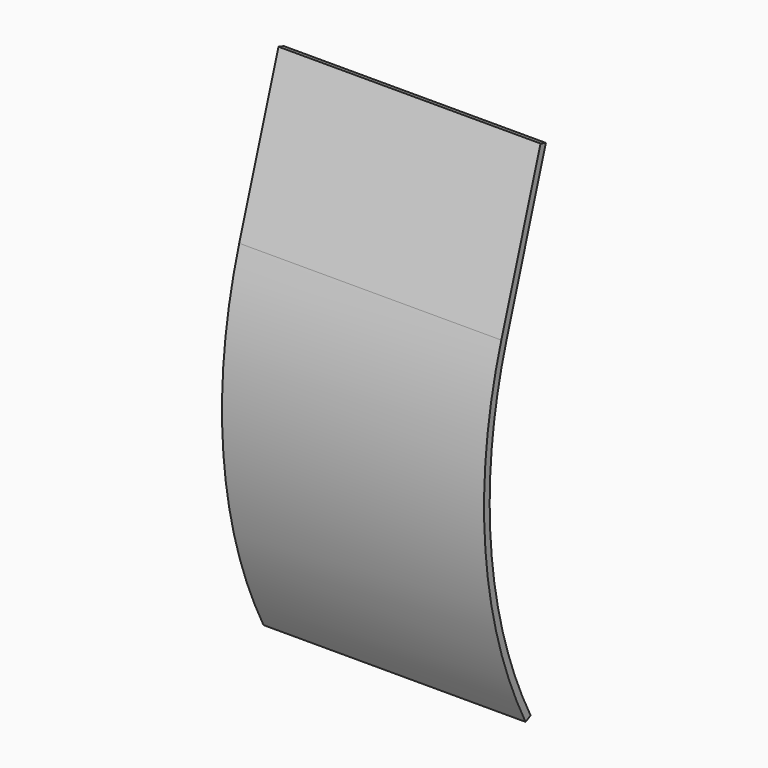
from build123d import *

# Parameters (mm, degrees)
F0_R      = 3.175
F1_DEPTH  = 11.43
F5_DEPTH  = 25.4
F6_D      = 6.35
F6_DEPTH  = 76.2
F6_TIP    = 1.9077324654
F7_D      = 6.35
F7_DEPTH  = 76.2
F7_TIP    = 1.9077324654
F8_D      = 6.35
F8_DEPTH  = 76.2
F8_TIP    = 1.9077324654
F9_D      = 6.35
F9_DEPTH  = 76.2
F9_TIP    = 1.9077324654
F11_DEPTH = 95.25


with BuildPart() as f1:
    # F0 (on Right) → F1 (new body)
    with BuildSketch(Plane.YZ):
        Polygon((122.1165703362, -43.8827651219), (122.1165703362, 51.3672348781), (-90.1177801321, 90.9827682114), (-67.7204277456, -59.7624426779), align=None)
        with Locations((109.9245703362, -34.0493256675)):
            Circle(F0_R, mode=Mode.SUBTRACT)
        with Locations((109.9245703362, 20.0526743325)):
            Circle(F0_R, mode=Mode.SUBTRACT)
        with Locations((90.3665703362, 36.3643222504)):
            Circle(F0_R, mode=Mode.SUBTRACT)
        with Locations((90.3665703362, 36.3643222504)):
            Circle(F0_R)
        with Locations((109.9245703362, 20.0526743325)):
            Circle(F0_R)
        with Locations((109.9245703362, -34.0493256675)):
            Circle(F0_R)
    extrude(amount=F1_DEPTH)


with BuildPart() as f1_1:
    # F2: moved
    add(f1.part.moved(Location((47.625, 0, 0))))


with BuildPart() as f3_1:
    # F3: instance of F1
    add(f1_1.part.mirror(Plane.YZ))

    # F4 (on face) → F5 (cut)
    with BuildSketch(Plane(origin=(-59.055, 0, 0), x_dir=(0, -1, 0), z_dir=(-1, 0, 0))):
        with BuildLine():
            ThreePointArc((17.5834296638, -43.8827651219), (-33.2165703362, 6.9172348781), (-84.0165703362, -43.8827651219))
            ThreePointArc((-84.0165703362, -43.8827651219), (-83.9914140751, -45.4812779607), (-83.9159702065, -47.0782076259))
            Line((-83.9159702065, -47.0782076259), (16.2473795848, -55.4567729935))
            ThreePointArc((16.2473795848, -55.4567729935), (17.2483117898, -49.7081983252), (17.5834296638, -43.8827651219))
        make_face()
        with BuildLine():
            Line((17.5834296638, -55.5685322642), (17.5834296638, -43.8827651219))
            ThreePointArc((17.5834296638, -43.8827651219), (17.2483117898, -49.7081983252), (16.2473795848, -55.4567729935))
            Line((16.2473795848, -55.4567729935), (17.5834296638, -55.5685322642))
        make_face()
    extrude(amount=-F5_DEPTH, mode=Mode.SUBTRACT)

    # F6
    with Locations(Plane.YZ):
        with Locations((90.3665703362, 36.3643222504)):
            Hole(F6_D / 2, depth=F6_DEPTH)
            with Locations((0, 0, -(F6_DEPTH + F6_TIP / 2))):  # 118° drill point
                Cone(0, F6_D / 2, F6_TIP, mode=Mode.SUBTRACT)

    # F7
    with Locations(Plane.YZ):
        with Locations((109.9245703362, 20.0526743325)):
            Hole(F7_D / 2, depth=F7_DEPTH)
            with Locations((0, 0, -(F7_DEPTH + F7_TIP / 2))):  # 118° drill point
                Cone(0, F7_D / 2, F7_TIP, mode=Mode.SUBTRACT)

    # F8
    with Locations(Plane.YZ):
        with Locations((109.9245703362, -34.0493256675)):
            Hole(F8_D / 2, depth=F8_DEPTH)
            with Locations((0, 0, -(F8_DEPTH + F8_TIP / 2))):  # 118° drill point
                Cone(0, F8_D / 2, F8_TIP, mode=Mode.SUBTRACT)


with BuildPart() as f1_2:
    add(f1_1.part)

    # F9
    with Locations(Plane(origin=(0, 0, 0), x_dir=(0, 1, 0), z_dir=(-1, 0, 0))):
        with Locations((90.3665703362, -36.3643222504)):
            Hole(F9_D / 2, depth=F9_DEPTH)
            with Locations((0, 0, -(F9_DEPTH + F9_TIP / 2))):  # 118° drill point
                Cone(0, F9_D / 2, F9_TIP, mode=Mode.SUBTRACT)


with BuildPart() as f11:
    # F10 (on face) → F11 (new body)
    with BuildSketch(Plane(origin=(47.625, 0, 0), x_dir=(0, -1, 0), z_dir=(-1, 0, 0))):
        with BuildLine():
            Line((46.0226261079, 141.3909337274), (55.0595276774, 113.1756901692))
            ThreePointArc((55.0595276774, 113.1756901692), (61.2467442889, 100.0992346093), (66.2609327925, 86.5296637591))
            Line((66.2609327925, 86.5296637591), (48.4415836851, 142.1656880364))
            Line((48.4415836851, 142.1656880364), (46.0226261079, 141.3909337274))
        make_face()
        with BuildLine():
            Line((55.0595276774, 113.1756901692), (63.7442887749, 86.0599085345))
            Line((63.7442887749, 86.0599085345), (66.2609327925, 86.5296637591))
            ThreePointArc((66.2609327925, 86.5296637591), (61.2467442889, 100.0992346093), (55.0595276774, 113.1756901692))
        make_face()
        with BuildLine():
            Line((63.7442887749, 86.0599085345), (63.7439748969, 86.0598499462))
            ThreePointArc((63.7439748969, 86.0598499462), (69.5928864987, 61.5174094181), (71.5584296638, 36.3643222504))
            ThreePointArc((71.5584296638, 36.3643222504), (66.8411203346, -2.4357759317), (52.9640480804, -38.9751723676))
            Line((52.9640480804, -38.9751723676), (55.2290606215, -40.1252095237))
            ThreePointArc((55.2290606215, -40.1252095237), (69.3114207434, -3.0269888444), (74.0984296638, 36.3643222504))
            ThreePointArc((74.0984296638, 36.3643222504), (72.1272426646, 61.7512669557), (66.2609327925, 86.5296637591))
            Line((66.2609327925, 86.5296637591), (63.7442887749, 86.0599085345))
        make_face()
    extrude(amount=F11_DEPTH)


solid = f11.part
